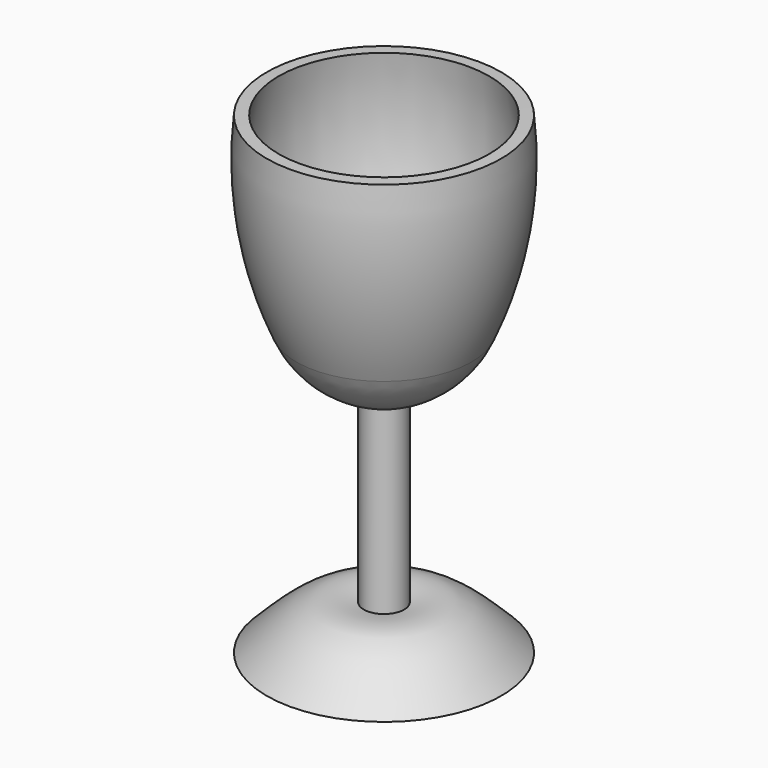
from build123d import *


with BuildPart() as f2:
    # F0 (on Right) → F2 (revolve)
    with BuildSketch(Plane.YZ):
        with BuildLine():
            ThreePointArc((2.2601699457, 25.4645776004), (6.763055625, 27.752698569), (9.7940675914, 31.793050468))
            ThreePointArc((9.7940675914, 31.793050468), (12.8263656852, 42.1244613999), (13.1089854985, 52.8879649937))
            Line((13.1089854985, 52.8879649937), (0, 53.1893223524))
            Line((0, 53.1893223524), (0, 0))
            Line((0, 0), (13.1089854985, 0))
            add(Edge.make_bspline(
                [(2.2601699457, 4.9723726697), (3.7510657861, 5.2384354603), (7.2313167661, 5.8595152584), (10.9712135556, 2.1311693273), (13.1089854985, 0)],
                knots=[0, 0, 0, 0, 0.4283874494, 1, 1, 1, 1], degree=3))
            Line((2.2601699457, 4.9723726697), (2.2601699457, 25.4645776004))
        make_face()
    revolve(axis=Axis((0, 0, 60.7232190669), (0, 0, 1)))

    # F1 (on Right) → F3 (revolve, cut)
    with BuildSketch(Plane.YZ):
        with BuildLine():
            Line((11.6035659592, 53.7920333445), (0, 53.7920333445))
            Line((0, 53.7920333445), (0, 27.1026492119))
            ThreePointArc((0, 27.1026492119), (3.5700042274, 27.1898335302), (6.5562026575, 29.1481874883))
            ThreePointArc((6.5562026575, 29.1481874883), (11.6477557212, 40.9441787088), (11.6035659592, 53.7920333445))
        make_face()
    revolve(axis=Axis((0, 0, 57.0899173617), (0, 0, 1)), mode=Mode.SUBTRACT)


solid = f2.part
